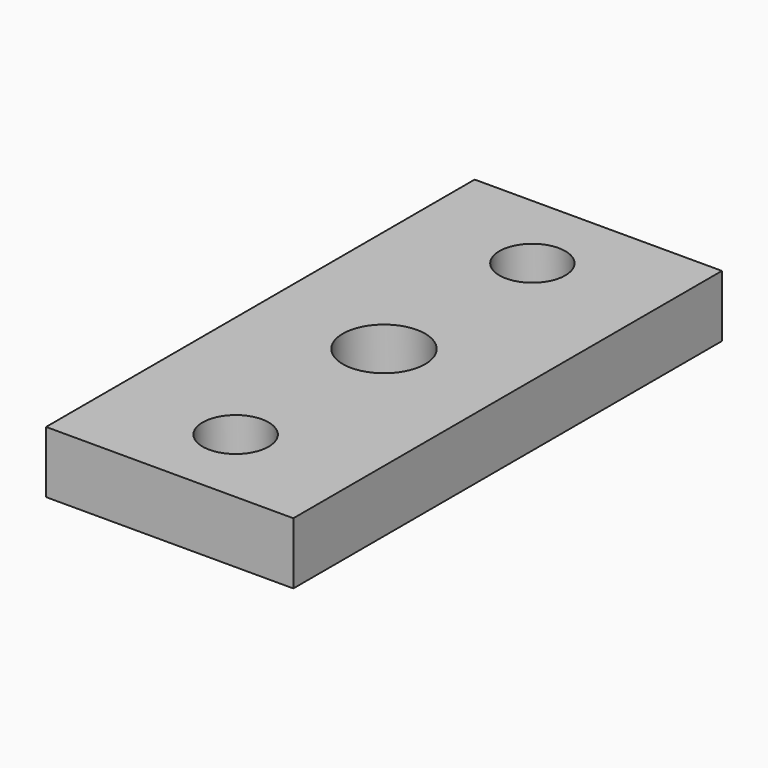
from build123d import *

# Parameters (mm, degrees)
CYLINDER030_R      = 2
CYLINDER030_DEPTH  = 10
CYLINDER032_R      = 1.6
CYLINDER032_DEPTH  = 10
CYLINDER031_R      = 1.6
CYLINDER031_DEPTH  = 10
BOX025014031_W     = 12
BOX025014031_H     = 26
BOX025014031_DEPTH = 3


with BuildPart() as cylinder030:
    # Cylinder030 → Cylinder030 (new body)
    with BuildSketch(Plane.XY):
        Circle(CYLINDER030_R)
    extrude(amount=CYLINDER030_DEPTH)


with BuildPart() as cylinder032:
    # Cylinder032 → Cylinder032 (new body)
    with BuildSketch(Plane(origin=(0, -9, 0), x_dir=(1, 0, 0), z_dir=(0, 0, 1))):
        Circle(CYLINDER032_R)
    extrude(amount=CYLINDER032_DEPTH)


with BuildPart() as fusion010020009007006003006003:
    # Cylinder031 → Cylinder031 (new body)
    with BuildSketch(Plane(origin=(0, 9, 0), x_dir=(1, 0, 0), z_dir=(0, 0, 1))):
        Circle(CYLINDER031_R)
    extrude(amount=CYLINDER031_DEPTH)

    # Fusion010020009007006003006003: union Cylinder030, Cylinder032
    add(cylinder030.part)
    add(cylinder032.part)


with BuildPart() as cut007002001007029003046001002:
    # Box025014031 → Box025014031 (new body)
    with BuildSketch(Plane(origin=(-6, -13, 0), x_dir=(1, 0, 0), z_dir=(0, 0, 1))):
        with Locations((6, 13)):
            Rectangle(BOX025014031_W, BOX025014031_H)
    extrude(amount=BOX025014031_DEPTH)

    # Cut007002001007029003046001002: cut Fusion010020009007006003006003
    add(fusion010020009007006003006003.part, mode=Mode.SUBTRACT)


with BuildPart() as cut007002001007029003046001002_1:
    # Cut007002001007029003046001002 placement: moved
    add(cut007002001007029003046001002.part.moved(Location((0, -44.9, 45))))


solid = cut007002001007029003046001002_1.part
